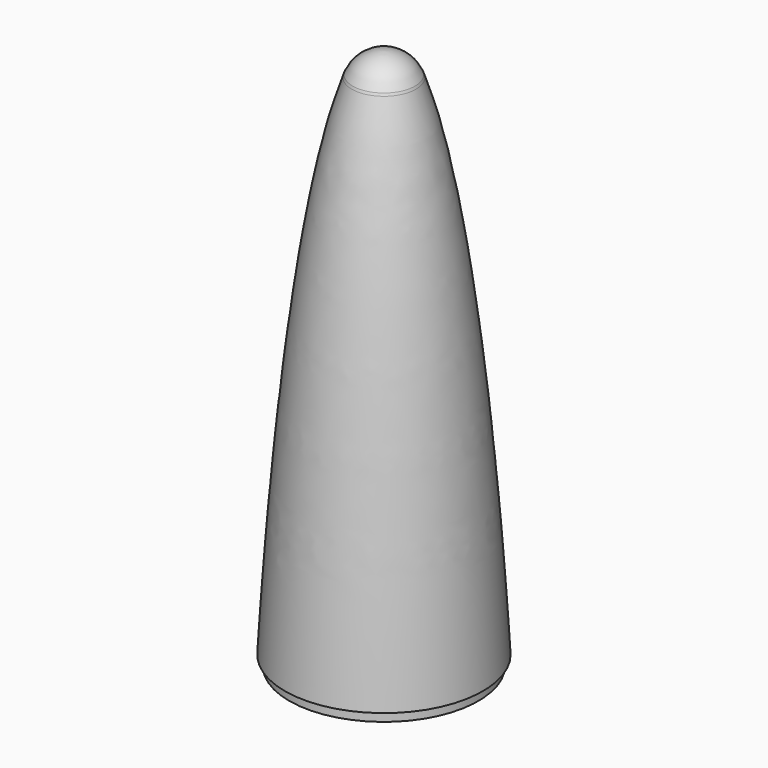
from build123d import *


with BuildPart() as f1:
    # F0 (on Front) → F1 (revolve)
    with BuildSketch(Plane.XZ):
        with BuildLine():
            Line((-29.6536915112, 129), (-28.35564, 129))
            Line((-28.35564, 129), (-28.35564, 126))
            Line((-28.35564, 126), (0, 126))
            Line((0, 126), (0, 129))
            Line((0, 129), (0, 288.27932477))
            ThreePointArc((0, 288.27932477), (-5.6077918157, 286.5319861633), (-9.3348351788, 281.9921988308))
            add(Edge.make_bspline(
                [(-9.3348351788, 281.9921988308), (-9.4727739576, 281.6297700169), (-9.6103529337, 281.2566441128)],
                knots=[0.2867889564, 0.2867889564, 0.2867889564, 0.2955048098, 0.2955048098, 0.2955048098], degree=2, weights=[1, 0.9999905043, 1]))
            add(Edge.make_bspline(
                [(-9.6103529337, 281.2566441128), (-23.3513178298, 243.9899766792), (-29.6536915112, 129)],
                knots=[0.2955048098, 0.2955048098, 0.2955048098, 1.1165607764, 1.1165607764, 1.1165607764], degree=2, weights=[1, 0.9169102359, 1]))
        make_face()
    revolve(axis=Axis((0, 0, 0), (0, 0, -1)))


with BuildPart() as f1_1:
    # F2: moved
    add(f1.part.moved(Location((0, 0, -220))))


solid = f1_1.part
